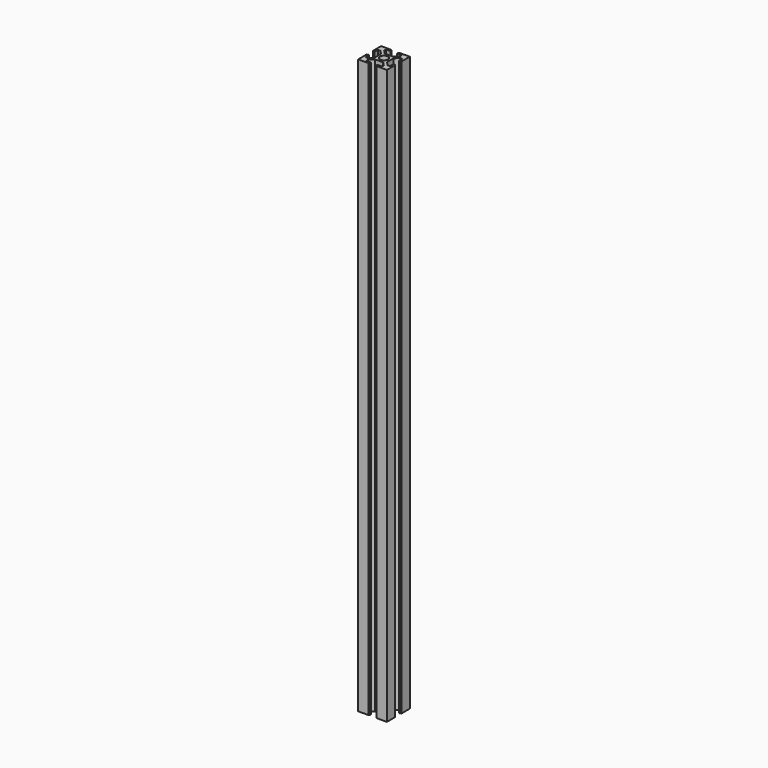
from build123d import *

# Parameters (mm, degrees)
F0_R     = 2.75
F1_DEPTH = 400


with BuildPart() as f1:
    # F0 (on Top) → F1 (new body)
    with BuildSketch(Plane.XY):
        Polygon((0, 7.25), (0, 0), (7.25, 0), (7.25, 0.5), (7.75, 0.5), (7.75, 1.5), (4.5, 1.5), (4.5, 3.032238), (7.114553, 5.70033), (10, 5.70033), (12.885447, 5.70033), (15.5, 3.032238), (15.5, 1.5), (12.25, 1.5), (12.25, 0.5), (12.75, 0.5), (12.75, 0), (20, 0), (20, 7.25), (19.5, 7.25), (19.5, 7.75), (18.5, 7.75), (18.5, 4.5), (16.967762, 4.5), (14.29967, 7.114553), (14.29967, 10), (14.29967, 12.885447), (16.967762, 15.5), (18.5, 15.5), (18.5, 12.25), (19.5, 12.25), (19.5, 12.75), (20, 12.75), (20, 20), (12.75, 20), (12.75, 19.5), (12.25, 19.5), (12.25, 18.5), (15.5, 18.5), (15.5, 16.967762), (12.885447, 14.29967), (10, 14.29967), (7.114553, 14.29967), (4.5, 16.967762), (4.5, 18.5), (7.75, 18.5), (7.75, 19.5), (7.25, 19.5), (7.25, 20), (0, 20), (0, 12.75), (0.5, 12.75), (0.5, 12.25), (1.5, 12.25), (1.5, 15.5), (3.032238, 15.5), (5.70033, 12.885447), (5.70033, 10), (5.70033, 7.114553), (3.032238, 4.5), (1.5, 4.5), (1.5, 7.75), (0.5, 7.75), (0.5, 7.25), align=None)
        with Locations((10, 10)):
            Circle(F0_R, mode=Mode.SUBTRACT)
    extrude(amount=F1_DEPTH)


solid = f1.part
